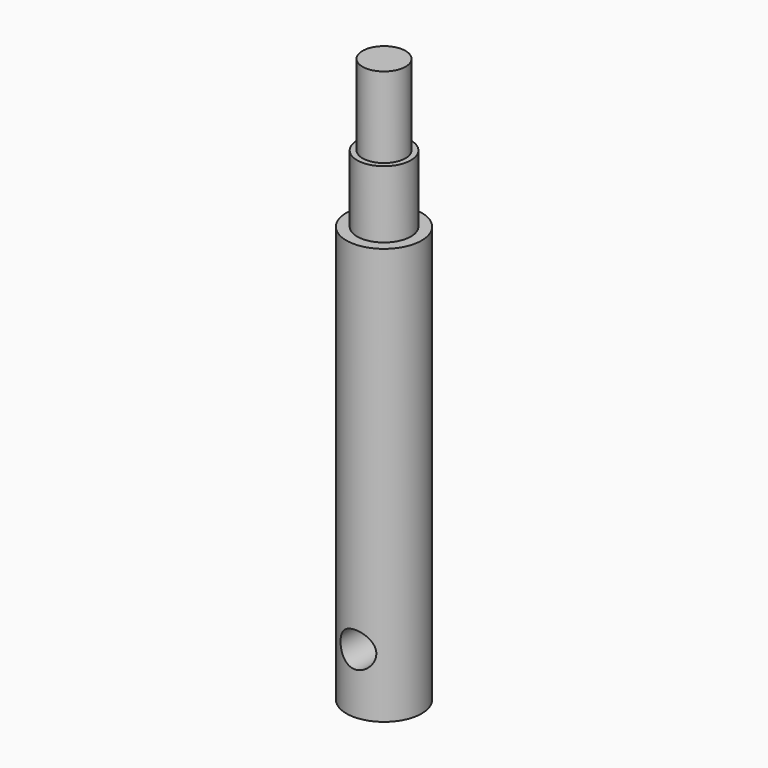
from build123d import *

# Parameters (mm, degrees)
SKETCH_R     = 14
PAD_DEPTH    = 155
SKETCH001_R  = 10
PAD001_DEPTH = 25
SKETCH002_R  = 8
PAD002_DEPTH = 30
SKETCH003_R  = 6.5
POCKET_DEPTH = 14


with BuildPart() as part:
    # Sketch → Pad (new body)
    with BuildSketch(Plane.XY):
        Circle(SKETCH_R)
    extrude(amount=PAD_DEPTH)

    # Sketch001 (on Face3 of Pad) → Pad001 (join)
    with BuildSketch(Plane.XY.offset(155)):
        Circle(SKETCH001_R)
    extrude(amount=PAD001_DEPTH)

    # Sketch002 (on Face5 of Pad001) → Pad002 (join)
    with BuildSketch(Plane.XY.offset(180)):
        Circle(SKETCH002_R)
    extrude(amount=PAD002_DEPTH)

    # Sketch003 (on DatumPlane) → Pocket (cut, symmetric)
    with BuildSketch(Plane(origin=(0, 0, 210), x_dir=(0.999848, 0, -0.017452), z_dir=(0, -1, 0))):
        with Locations((3.662873, -187.723682)):
            Circle(SKETCH003_R)
    extrude(amount=POCKET_DEPTH, both=True, mode=Mode.SUBTRACT)


solid = part.part
